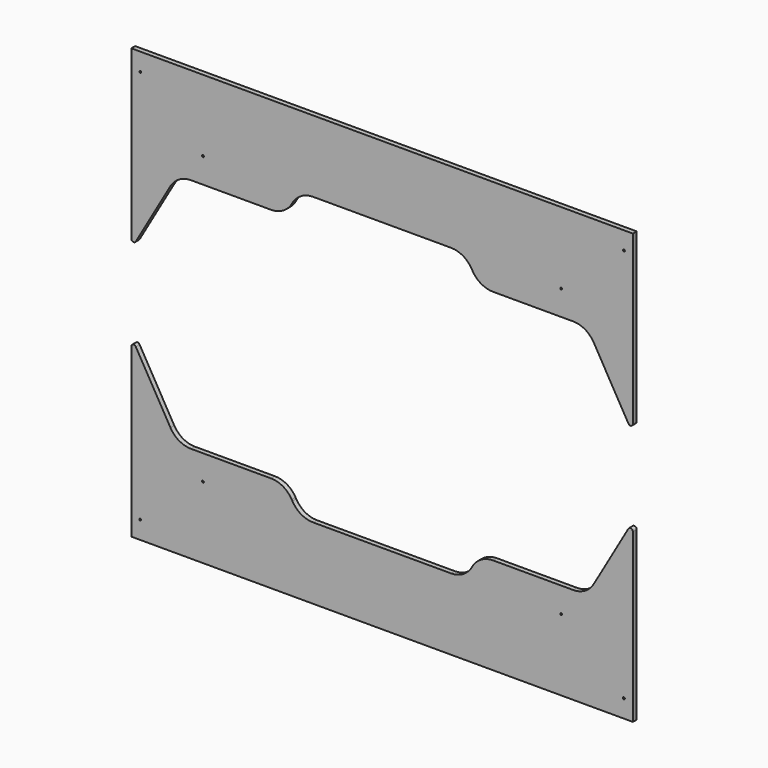
from build123d import *

# Parameters (mm, degrees)
F1_DEPTH = 5.08
F2_R     = 1.016
F3_DEPTH = 5.081
F4_R     = 1.016
F5_DEPTH = 5.081
F7_DEPTH = 5.081
F8_R     = 25.4
F8_2_R   = 25.4
F9_R     = 2.54
F9_2_R   = 2.54


with BuildPart() as f1:
    # F0 (on Front) → F1 (new body)
    with BuildSketch(Plane.XZ):
        with BuildLine():
            Line((0, 187.6179503786), (0, 0))
            Line((0, 0), (533.4, 0))
            Line((533.4, 0), (533.4, 187.6179503786))
            Line((533.4, 187.6179503786), (491.8030964543, 115.57))
            ThreePointArc((491.8030964543, 115.57), (482.5060511982, 106.2729547439), (469.8060511982, 102.87))
            Line((469.8060511982, 102.87), (339.2902493452, 102.87))
            Line((339.2902493452, 102.87), (194.1097506548, 102.87))
            Line((194.1097506548, 102.87), (63.5939488018, 102.87))
            ThreePointArc((63.5939488018, 102.87), (50.8939488018, 106.2729547439), (41.5969035457, 115.57))
            Line((41.5969035457, 115.57), (0, 187.6179503786))
        make_face()
    extrude(amount=F1_DEPTH)


with BuildPart() as f1b:
    # F0 (on Front) → F1, piece 2 (new body)
    with BuildSketch(Plane.XZ):
        with BuildLine():
            Line((0, 457.2), (0, 269.5820496214))
            Line((0, 269.5820496214), (41.5969035457, 341.63))
            ThreePointArc((41.5969035457, 341.63), (50.8939488018, 350.9270452561), (63.5939488018, 354.33))
            Line((63.5939488018, 354.33), (194.1097506548, 354.33))
            Line((194.1097506548, 354.33), (339.2902493452, 354.33))
            Line((339.2902493452, 354.33), (469.8060511982, 354.33))
            ThreePointArc((469.8060511982, 354.33), (482.5060511982, 350.9270452561), (491.8030964543, 341.63))
            Line((491.8030964543, 341.63), (533.4, 269.5820496214))
            Line((533.4, 269.5820496214), (533.4, 457.2))
            Line((533.4, 457.2), (0, 457.2))
        make_face()
    extrude(amount=F1_DEPTH)


with BuildPart() as f3_tool:
    # F2 (on face) → F3 (new body, through all)
    with BuildSketch(Plane.XZ.offset(5.08)):
        with Locations((9.525, 438.15)):
            Circle(F2_R)
        with Locations((523.875, 438.15)):
            Circle(F2_R)
        with Locations((523.875, 19.05)):
            Circle(F2_R)
        with Locations((9.525, 19.05)):
            Circle(F2_R)
    extrude(amount=-F3_DEPTH)


with BuildPart() as f1_1:
    add(f1.part)

    # F3: cut by f3_tool
    add(f3_tool.part, mode=Mode.SUBTRACT)


with BuildPart() as f1b_1:
    add(f1b.part)

    # F3: cut by f3_tool
    add(f3_tool.part, mode=Mode.SUBTRACT)


with BuildPart() as f5_tool:
    # F4 (on face) → F5 (new body, through all)
    with BuildSketch(Plane.XZ.offset(5.08)):
        with Locations((76.2, 381)):
            Circle(F4_R)
        with Locations((457.2, 76.2)):
            Circle(F4_R)
        with Locations((457.2, 381)):
            Circle(F4_R)
        with Locations((76.2, 76.2)):
            Circle(F4_R)
    extrude(amount=-F5_DEPTH)


with BuildPart() as f1_2:
    add(f1_1.part)

    # F5: cut by f5_tool
    add(f5_tool.part, mode=Mode.SUBTRACT)


with BuildPart() as f1b_2:
    add(f1b_1.part)

    # F5: cut by f5_tool
    add(f5_tool.part, mode=Mode.SUBTRACT)


with BuildPart() as f7_tool:
    # F6 (on face) → F7 (new body, through all)
    with BuildSketch(Plane.XZ.offset(5.08)):
        Polygon((413.3469683742, 228.6), (340.756719029, 354.33), (192.643280971, 354.33), (120.0530316258, 228.6), (193.3765158129, 101.6), (340.0234841871, 101.6), align=None)
        Polygon((340.756719029, 354.33), (340.0234841871, 355.6), (193.3765158129, 355.6), (192.643280971, 354.33), align=None)
        with BuildLine():
            Line((193.3765158129, 355.6), (340.0234841871, 355.6))
            Line((340.0234841871, 355.6), (340.756719029, 354.33))
            Line((340.756719029, 354.33), (370.0861127038, 354.33))
            Line((370.0861127038, 354.33), (362.0205294432, 368.3))
            ThreePointArc((362.0205294432, 368.3), (352.7234841871, 377.5970452561), (340.0234841871, 381))
            Line((340.0234841871, 381), (193.3765158129, 381))
            ThreePointArc((193.3765158129, 381), (180.6765158129, 377.5970452561), (171.3794705568, 368.3))
            Line((171.3794705568, 368.3), (163.3138872962, 354.33))
            Line((163.3138872962, 354.33), (192.643280971, 354.33))
            Line((192.643280971, 354.33), (193.3765158129, 355.6))
        make_face()
        with BuildLine():
            Line((370.0861127038, 354.33), (340.756719029, 354.33))
            Line((340.756719029, 354.33), (413.3469683742, 228.6))
            Line((413.3469683742, 228.6), (340.0234841871, 101.6))
            Line((340.0234841871, 101.6), (193.3765158129, 101.6))
            Line((193.3765158129, 101.6), (120.0530316258, 228.6))
            Line((120.0530316258, 228.6), (192.643280971, 354.33))
            Line((192.643280971, 354.33), (163.3138872962, 354.33))
            Line((163.3138872962, 354.33), (90.723637951, 228.6))
            Line((90.723637951, 228.6), (171.3794705568, 88.9))
            ThreePointArc((171.3794705568, 88.9), (180.6765158129, 79.6029547439), (193.3765158129, 76.2))
            Line((193.3765158129, 76.2), (340.0234841871, 76.2))
            ThreePointArc((340.0234841871, 76.2), (352.7234841871, 79.6029547439), (362.0205294432, 88.9))
            Line((362.0205294432, 88.9), (442.676362049, 228.6))
            Line((442.676362049, 228.6), (370.0861127038, 354.33))
        make_face()
    extrude(amount=-F7_DEPTH)


with BuildPart() as f1_3:
    add(f1_2.part)

    # F7: cut by f7_tool
    add(f7_tool.part, mode=Mode.SUBTRACT)

    # F8#2
    f8_2_edges = [f1_3.edges().sort_by_distance(p)[0] for p in [
        (163.313887, -2.54, 102.87),
        (370.086113, -2.54, 102.87),
    ]]
    fillet(f8_2_edges, radius=F8_2_R)

    # F9#2
    f9_2_edges = [f1_3.edges().sort_by_distance(p)[0] for p in [
        (0, -2.54, 187.61795),
        (533.4, -2.54, 187.61795),
    ]]
    fillet(f9_2_edges, radius=F9_2_R)


with BuildPart() as f1b_3:
    add(f1b_2.part)

    # F7: cut by f7_tool
    add(f7_tool.part, mode=Mode.SUBTRACT)

    # F8
    f8_edges = [f1b_3.edges().sort_by_distance(p)[0] for p in [
        (163.313887, -2.54, 354.33),
        (370.086113, -2.54, 354.33),
    ]]
    fillet(f8_edges, radius=F8_R)

    # F9
    f9_edges = [f1b_3.edges().sort_by_distance(p)[0] for p in [
        (0, -2.54, 269.58205),
        (533.4, -2.54, 269.58205),
    ]]
    fillet(f9_edges, radius=F9_R)


solid = Compound([f1_3.part, f1b_3.part])
